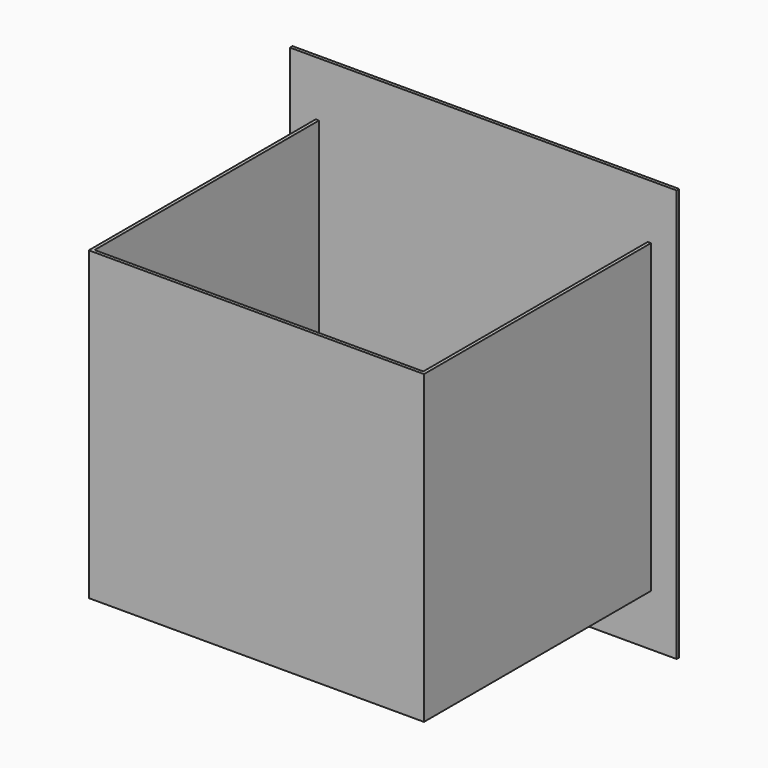
from build123d import *

# Parameters (mm, degrees)
F0_W     = 762
F0_H     = 812.8
F1_DEPTH = 6.35
F3_DEPTH = 552.45
F4_W     = 647.7000117302
F4_H     = 596.9000117302
F5_DEPTH = 6.35


with BuildPart() as f1:
    # F0 (on Front) → F1 (new body)
    with BuildSketch(Plane.XZ):
        Rectangle(F0_W, F0_H)
    extrude(amount=F1_DEPTH)

    # F2 (on face) → F3 (join)
    with BuildSketch(Plane.XZ.offset(6.35)):
        Polygon((-330.2, -304.8), (330.2, -304.8), (330.2, 298.4500058651), (323.8500058651, 298.4500058651), (323.8500058651, -298.4500058651), (-323.8500058651, -298.4500058651), (-323.8500058651, 298.4500058651), (-330.2, 298.4500058651), align=None)
    extrude(amount=F3_DEPTH)

    # F4 (on face) → F5 (join)
    with BuildSketch(Plane.XZ.offset(558.8)):
        Polygon((-330.2, 298.4500058651), (-330.2, -304.8), (330.2, -304.8), (330.2, 298.4500058651), (323.8500058651, 298.4500058651), (323.8500058651, -298.4500058651), (-323.8500058651, -298.4500058651), (-323.8500058651, 298.4500058651), align=None)
        Rectangle(F4_W, F4_H)
    extrude(amount=F5_DEPTH)


solid = f1.part
